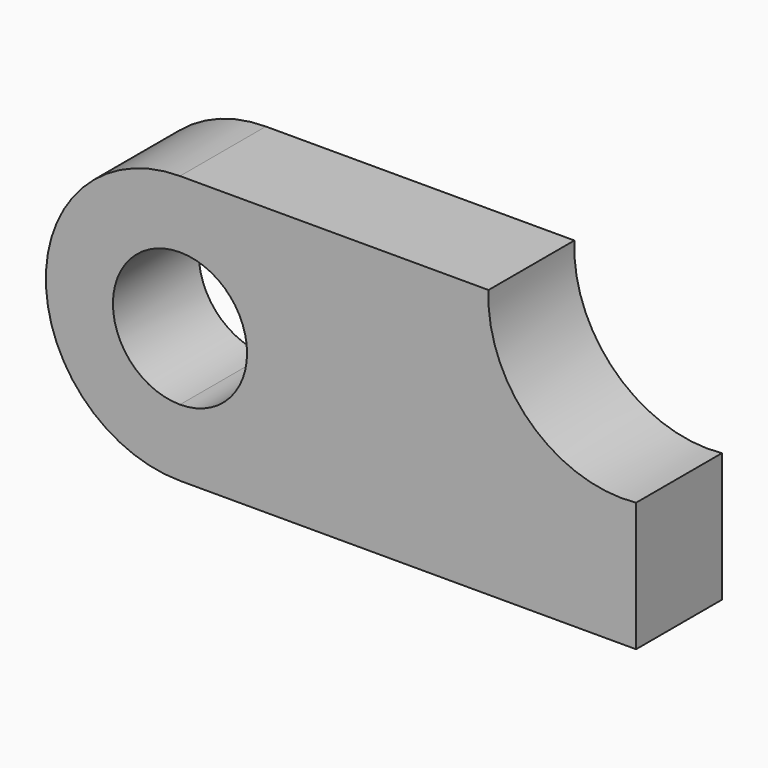
from build123d import *

# Parameters (mm, degrees)
F1_DEPTH = 25.4


with BuildPart() as f1:
    # F0 (on Front) → F1 (new body)
    with BuildSketch(Plane.XZ):
        with BuildLine():
            Line((0, 15.875), (0, 0))
            Line((0, 0), (107.95, 0))
            Line((107.95, 0), (107.95, 30.537644))
            ThreePointArc((107.95, 30.537644), (82.952753, 39.035442), (73.025, 63.5))
            Line((73.025, 63.5), (0, 63.5))
            Line((0, 63.5), (0, 47.625))
            ThreePointArc((0, 47.625), (11.22532, 42.97532), (15.875, 31.75))
            ThreePointArc((15.875, 31.75), (11.22532, 20.52468), (0, 15.875))
        make_face()
        with BuildLine():
            ThreePointArc((0, 63.5), (-31.75, 31.75), (0, 0))
            Line((0, 0), (0, 15.875))
            ThreePointArc((0, 15.875), (-15.875, 31.75), (0, 47.625))
            Line((0, 47.625), (0, 63.5))
        make_face()
    extrude(amount=F1_DEPTH)


solid = f1.part
